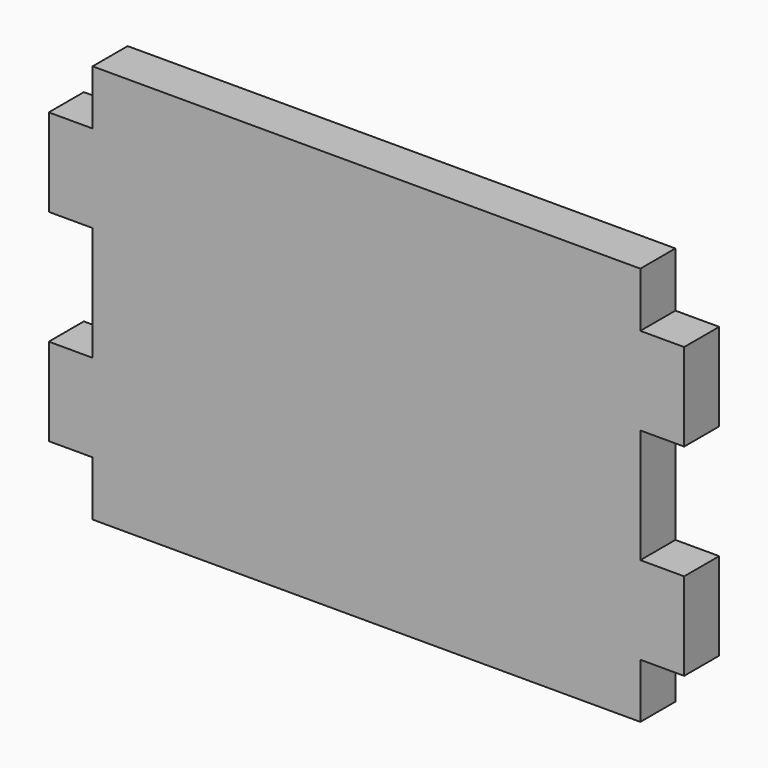
from build123d import *

# Parameters (mm, degrees)
F1_DEPTH = 4


with BuildPart() as f1:
    # F0 (on Front) → F1 (new body)
    with BuildSketch(Plane.XZ):
        Polygon((-25, 5.213), (-25, 0), (-25, -5.213), (-29, -5.213), (-29, -13.213), (-25, -13.213), (-25, -18.213), (0, -18.213), (25, -18.213), (25, -13.213), (29, -13.213), (29, -5.213), (25, -5.213), (25, 0), (25, 5.213), (29, 5.213), (29, 13.213), (25, 13.213), (25, 18.213), (0, 18.213), (-25, 18.213), (-25, 13.213), (-29, 13.213), (-29, 5.213), align=None)
    extrude(amount=F1_DEPTH)


solid = f1.part
